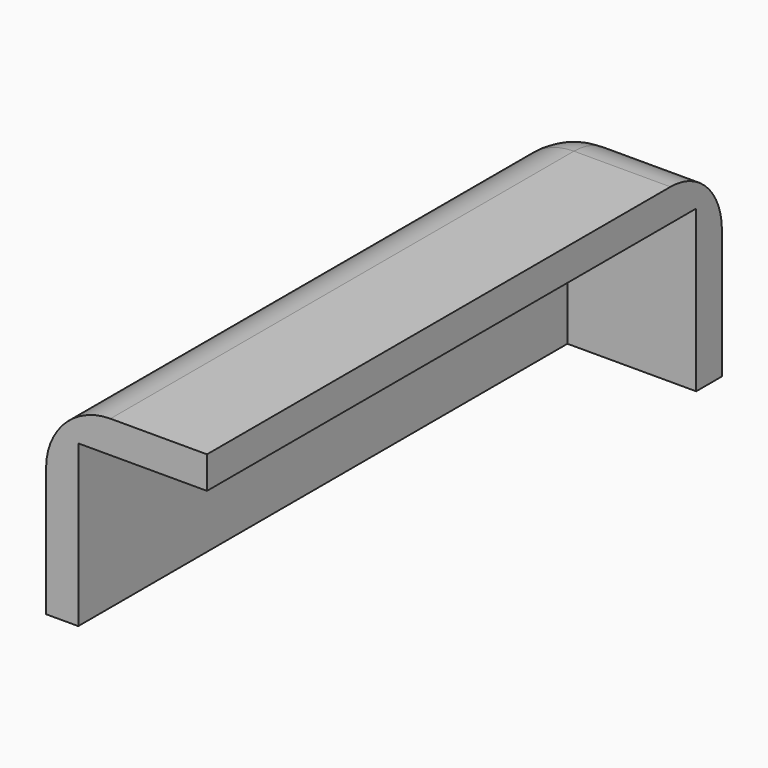
from build123d import *

# Parameters (mm, degrees)
F0_W     = 12.7
F0_H     = 50.8
F1_DEPTH = 2.54
F3_DEPTH = 12.7
F4_R     = 5.08


with BuildPart() as f1:
    # F0 (on Top) → F1 (new body)
    with BuildSketch(Plane.XY):
        with Locations((6.35, -25.4)):
            Rectangle(F0_W, F0_H)
    extrude(amount=F1_DEPTH)

    # F2 (on face) → F3 (join)
    with BuildSketch(Plane(origin=(0, 0, 0), x_dir=(1, 0, 0), z_dir=(0, 0, -1))):
        Polygon((0, 0), (12.7, 0), (12.7, 2.54), (2.54, 2.54), (2.54, 50.8), (0, 50.8), align=None)
    extrude(amount=F3_DEPTH)

    # F4
    f4_edges = [f1.edges().sort_by_distance(p)[0] for p in [
        (0, 0, -5.08),
        (0, -25.4, 2.54),
        (6.35, 0, 2.54),
    ]]
    fillet(f4_edges, radius=F4_R)


solid = f1.part
